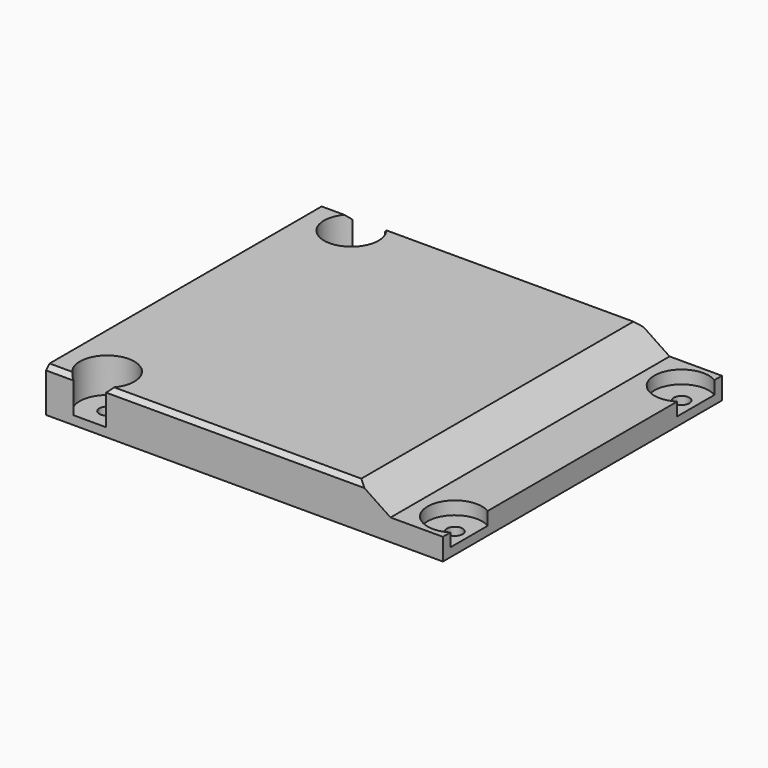
from build123d import *

# Parameters (mm, degrees)
SKETCH006_W         = 182
SKETCH006_H         = 160
PAD003_DEPTH        = 20
HOLE002_D           = 7.1
HOLE002_DEPTH       = 25
HOLE002_CBORE_D     = 25
HOLE002_CBORE_DEPTH = 16
SKETCH013_W         = 146
SKETCH013_H         = 125
POCKET003_DEPTH     = 5
POCKET003_TAPER     = 60
CHAMFER001_SIZE     = 2
SKETCH019_W         = 115
SKETCH019_H         = 107
POCKET007_DEPTH     = 12
POCKET014_DEPTH     = 500


with BuildPart() as part:
    # Sketch006 → Pad003 (new body)
    with BuildSketch(Plane.XY):
        with Locations((91, 82)):
            Rectangle(SKETCH006_W, SKETCH006_H)
    extrude(amount=PAD003_DEPTH)

    # Hole002
    with Locations(Plane.XY.offset(20)):
        with Locations((20, 152), (20, 12), (175.5, 147), (175.5, 17)):
            CounterBoreHole(HOLE002_D / 2, HOLE002_CBORE_D / 2, HOLE002_CBORE_DEPTH, depth=HOLE002_DEPTH)

    # Sketch013 → Pocket003 (cut)
    with BuildSketch(Plane.XY):
        with Locations((98, 82.5)):
            Rectangle(SKETCH013_W, SKETCH013_H)
    extrude(amount=POCKET003_DEPTH, taper=POCKET003_TAPER, mode=Mode.SUBTRACT)

    # Chamfer001
    chamfer001_edges = [part.edges().sort_by_distance(p)[0] for p in [
        (104.75, 2, 20),
        (6.25, 2, 20),
        (6.25, 162, 20),
        (104.75, 162, 20),
    ]]
    chamfer(chamfer001_edges, length=CHAMFER001_SIZE)

    # Sketch019 → Pocket007 (cut)
    with BuildSketch(Plane.XY):
        with Locations((91.5, 82.5)):
            Rectangle(SKETCH019_W, SKETCH019_H)
    extrude(amount=POCKET007_DEPTH, mode=Mode.SUBTRACT)

    # Sketch028 → Pocket014 (cut)
    with BuildSketch(Plane.XZ):
        Polygon((140, 30), (190, 30), (190, 10), (170, 10), (160, 10), (158, 10), (140, 22), align=None)
    extrude(amount=-POCKET014_DEPTH, mode=Mode.SUBTRACT)


with BuildPart() as part_1:
    # Body001 placement: moved
    add(part.part.moved(Location((-80, -12, 116))))


solid = part_1.part
